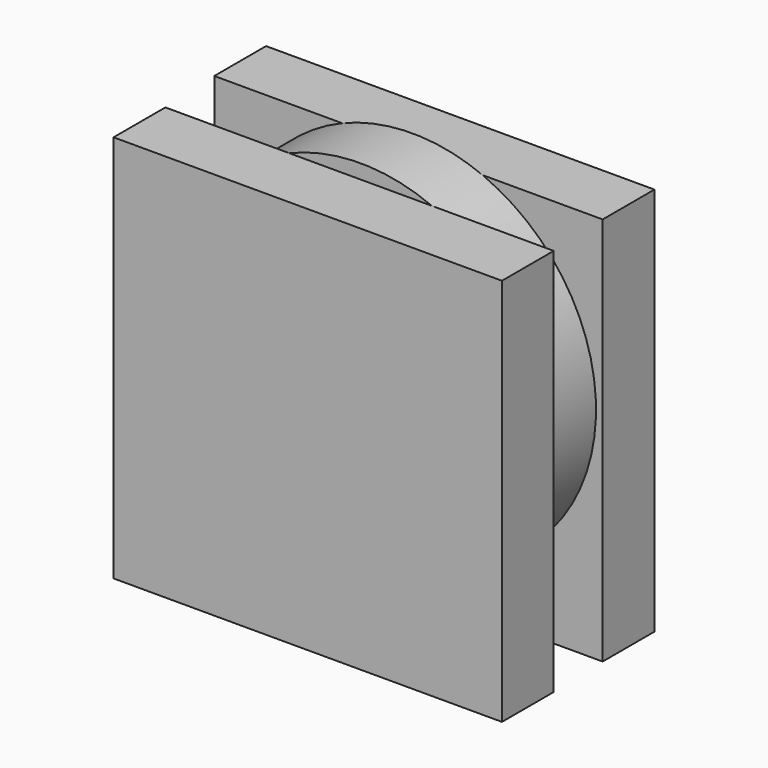
from build123d import *

# Parameters (mm, degrees)
F0_W     = 152.4
F0_H     = 152.4
F1_DEPTH = 25.4
F2_R     = 72.070602
F3_DEPTH = 25.4
F4_W     = 152.4
F4_H     = 152.73941
F5_DEPTH = 25.4


with BuildPart() as f1:
    # F0 (on Front) → F1 (new body)
    with BuildSketch(Plane.XZ):
        with Locations((-0.407152, -9.77602)):
            Rectangle(F0_W, F0_H)
        with Locations((-0.407152, -9.77602)):
            Rectangle(F0_W, F0_H)
    extrude(amount=F1_DEPTH)

    # F2 (on face) → F3 (join)
    with BuildSketch(Plane(origin=(0, 0, 0), x_dir=(-1, 0, 0), z_dir=(0, 1, 0))):
        Circle(F2_R)
    extrude(amount=F3_DEPTH)

    # F4 (on face) → F5 (join)
    with BuildSketch(Plane(origin=(0, 25.4, 0), x_dir=(-1, 0, 0), z_dir=(0, 1, 0))):
        with Locations((1.527745, -9.776019)):
            Rectangle(F4_W, F4_H)
    extrude(amount=F5_DEPTH)


solid = f1.part
